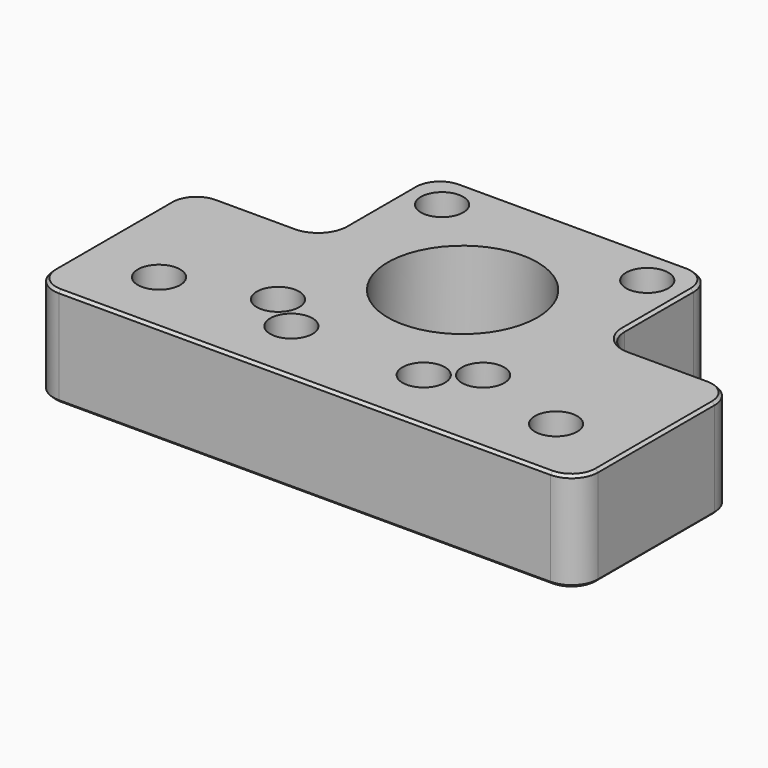
from build123d import *

# Parameters (mm, degrees)
SKETCH_R        = 11.3
SKETCH_R_2      = 1.6
SKETCH_R_3      = 3.2
PAD_DEPTH       = 15
SKETCH001_R     = 3.2
POCKET_DEPTH    = 3.4
SKETCH002_R     = 6.1
POCKET001_DEPTH = 4
FILLET_R        = 4
CHAMFER_SIZE    = 0.4
CHAMFER001_SIZE = 0.4


with BuildPart() as part:
    # Sketch → Pad (new body)
    with BuildSketch(Plane.XY):
        Polygon((20, 30), (20, 51), (62.3, 51), (62.3, 30), (82.3, 30), (82.3, 0), (0, 0), (0, 30), align=None)
        with Locations((41.15, 29.85)):
            Circle(SKETCH_R, mode=Mode.SUBTRACT)
        with Locations((25.65, 45.35)):
            Circle(SKETCH_R_2, mode=Mode.SUBTRACT)
        with Locations((25.65, 14.35)):
            Circle(SKETCH_R_2, mode=Mode.SUBTRACT)
        with Locations((56.65, 45.35)):
            Circle(SKETCH_R_2, mode=Mode.SUBTRACT)
        with Locations((56.65, 14.35)):
            Circle(SKETCH_R_2, mode=Mode.SUBTRACT)
        with Locations((11.15, 10)):
            Circle(SKETCH_R_3, mode=Mode.SUBTRACT)
        with Locations((31.15, 10)):
            Circle(SKETCH_R_3, mode=Mode.SUBTRACT)
        with Locations((51.15, 10)):
            Circle(SKETCH_R_3, mode=Mode.SUBTRACT)
        with Locations((71.15, 10)):
            Circle(SKETCH_R_3, mode=Mode.SUBTRACT)
    extrude(amount=PAD_DEPTH)

    # Sketch001 (on Face19 of Pad) → Pocket (cut)
    with BuildSketch(Plane.XY.offset(15)):
        with Locations((25.65, 45.35)):
            Circle(SKETCH001_R)
        with Locations((56.65, 45.35)):
            Circle(SKETCH001_R)
        with Locations((56.65, 14.35)):
            Circle(SKETCH001_R)
        with Locations((25.65, 14.35)):
            Circle(SKETCH001_R)
    extrude(amount=-POCKET_DEPTH, mode=Mode.SUBTRACT)

    # Sketch002 (on Face4 of Pocket) → Pocket001 (cut)
    with BuildSketch(Plane(origin=(0, 0, 0), x_dir=(1, 0, 0), z_dir=(0, 0, -1))):
        with Locations((11.15, -10)):
            Circle(SKETCH002_R)
        with Locations((31.15, -10)):
            Circle(SKETCH002_R)
        with Locations((51.15, -10)):
            Circle(SKETCH002_R)
        with Locations((71.15, -10)):
            Circle(SKETCH002_R)
    extrude(amount=-POCKET001_DEPTH, mode=Mode.SUBTRACT)

    # Fillet
    fillet_edges = [part.edges().sort_by_distance(p)[0] for p in [
        (62.3, 51, 7.5),
        (62.3, 30, 7.5),
        (82.3, 30, 7.5),
        (82.3, 0, 7.5),
        (0, 0, 7.5),
        (0, 30, 7.5),
        (20, 30, 7.5),
        (20, 51, 7.5),
    ]]
    fillet(fillet_edges, radius=FILLET_R)

    # Chamfer
    chamfer_edges = [part.edges().sort_by_distance(p)[0] for p in [
        (20, 40.5, 0),
        (18.828427, 31.171573, 0),
        (21.171573, 49.828427, 0),
        (10, 30, 0),
        (41.15, 51, 0),
        (1.171573, 28.828427, 0),
        (61.128427, 49.828427, 0),
        (0, 15, 0),
        (62.3, 40.5, 0),
        (1.171573, 1.171573, 0),
        (63.471573, 31.171573, 0),
        (41.15, 0, 0),
        (72.3, 30, 0),
        (81.128427, 1.171573, 0),
        (81.128427, 28.828427, 0),
        (82.3, 15, 0),
        (65.05, 10, 0),
        (57.761563, 13.199162, 0),
        (57.083854, 11.413995, 0),
        (45.618717, 7.428053, 0),
        (56.807929, 15.942187, 0),
        (33.721947, 15.531283, 0),
        (29.736005, 4.066146, 0),
        (24.395064, 15.34254, 0),
        (5.05, 10, 0),
        (55.05, 45.35, 0),
        (29.85, 29.85, 0),
        (24.05, 45.35, 0),
    ]]
    chamfer(chamfer_edges, length=CHAMFER_SIZE)

    # Chamfer001
    chamfer001_edges = [part.edges().sort_by_distance(p)[0] for p in [
        (20, 40.5, 15),
        (21.171573, 49.828427, 15),
        (41.15, 51, 15),
        (61.128427, 49.828427, 15),
        (62.3, 40.5, 15),
        (63.471573, 31.171573, 15),
        (72.3, 30, 15),
        (81.128427, 28.828427, 15),
        (82.3, 15, 15),
        (81.128427, 1.171573, 15),
        (41.15, 0, 15),
        (1.171573, 1.171573, 15),
        (0, 15, 15),
        (1.171573, 28.828427, 15),
        (10, 30, 15),
        (18.828427, 31.171573, 15),
    ]]
    chamfer(chamfer001_edges, length=CHAMFER001_SIZE)


solid = part.part
